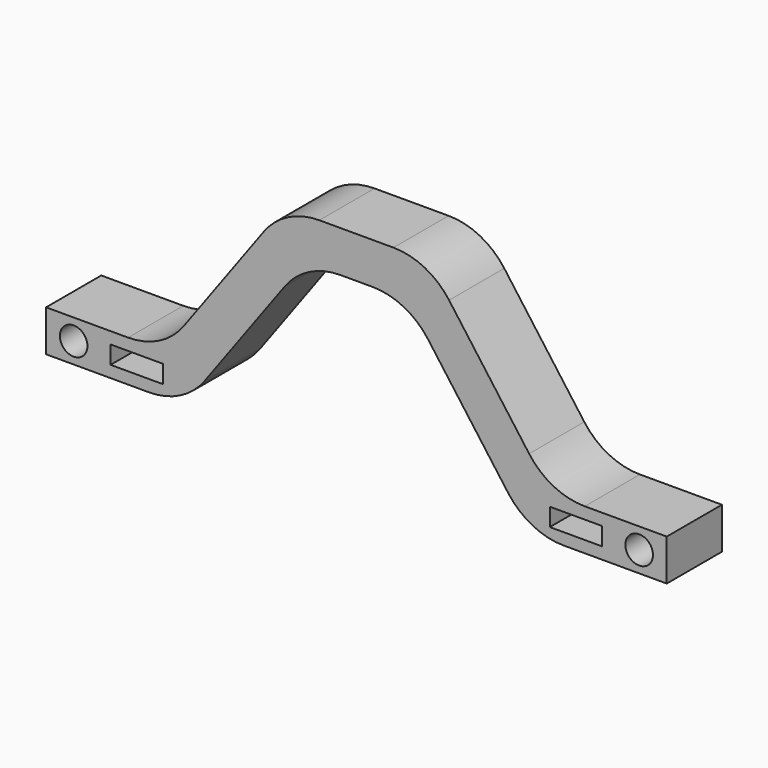
from build123d import *

# Parameters (mm, degrees)
SKETCH_R    = 2
SKETCH_W    = 7.6
SKETCH_H    = 2.6
PAD_DEPTH   = 10
FILLET_R    = 10
FILLET001_R = 10


with BuildPart() as part:
    # Sketch → Pad (new body)
    with BuildSketch(Plane.XZ):
        Polygon((10.44043, 30), (28.04043, 6), (45, 6), (45, 0), (25, 0), (7.4, 24), (-7.4, 24), (-25, 0), (-45, 0), (-45, 6), (-28.04043, 6), (-10.44043, 30), align=None)
        with Locations((-41, 3)):
            Circle(SKETCH_R, mode=Mode.SUBTRACT)
        with Locations((41, 3)):
            Circle(SKETCH_R, mode=Mode.SUBTRACT)
        with Locations((-31.84043, 3)):
            Rectangle(SKETCH_W, SKETCH_H, mode=Mode.SUBTRACT)
        with Locations((31.84043, 3)):
            Rectangle(SKETCH_W, SKETCH_H, mode=Mode.SUBTRACT)
    extrude(amount=PAD_DEPTH)

    # Fillet
    fillet_edges = [part.edges().sort_by_distance(p)[0] for p in [
        (-28.04043, -5, 6),
        (-10.44043, -5, 30),
        (10.44043, -5, 30),
        (28.04043, -5, 6),
    ]]
    fillet(fillet_edges, radius=FILLET_R)

    # Fillet001
    fillet001_edges = [part.edges().sort_by_distance(p)[0] for p in [
        (-25, -5, 0),
        (-7.4, -5, 24),
        (7.4, -5, 24),
        (25, -5, 0),
    ]]
    fillet(fillet001_edges, radius=FILLET001_R)


solid = part.part
